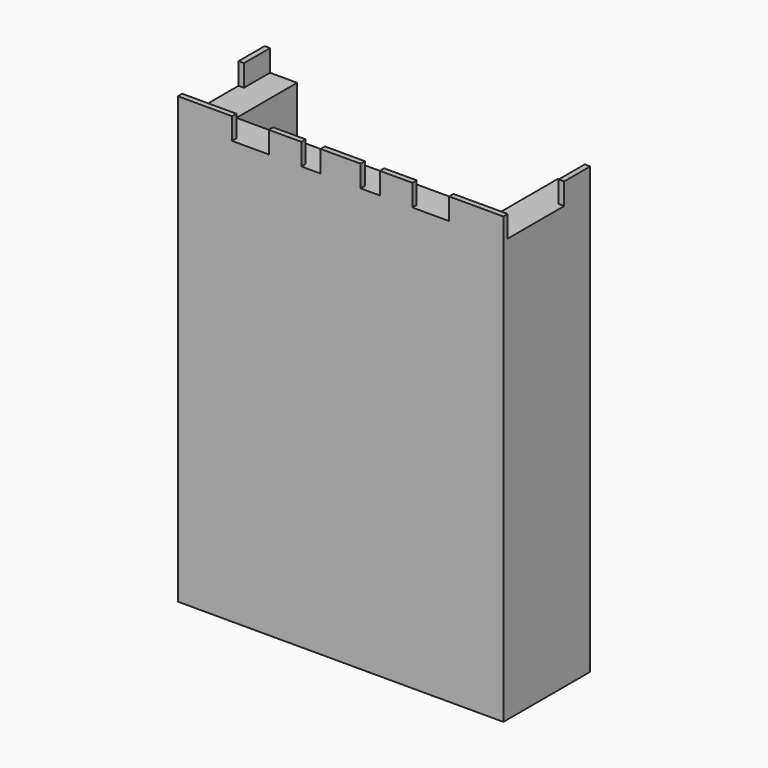
from build123d import *

# Parameters (mm, degrees)
F1_DEPTH = 39
F2_W     = 0.5
F2_H     = 3
F2_W_2   = 5
F2_H_2   = 0.5
F2_W_3   = 3
F3_DEPTH = 2


with BuildPart() as f1:
    # F0 (on Top) → F1 (new body)
    with BuildSketch(Plane.XY):
        Polygon((-15, 0), (0, 0), (15, 0), (15, 10), (12, 10), (12, 3), (-12, 3), (-12, 10), (-15, 10), align=None)
    extrude(amount=F1_DEPTH)

    # F2 (on face) → F3 (join)
    with BuildSketch(Plane.XY.offset(39)):
        with Locations((-14.75, 8.5)):
            Rectangle(F2_W, F2_H)
        with Locations((-12.5, 0.25)):
            Rectangle(F2_W_2, F2_H_2)
        with Locations((-5.117418, 0.25)):
            Rectangle(F2_W_3, F2_H_2)
        Polygon((-1.844762, 0.5), (-1.844762, 0), (0, 0), (1.844762, 0), (1.844762, 0.5), (0, 0.5), align=None)
        with Locations((5.117418, 0.25)):
            Rectangle(F2_W_3, F2_H_2)
        with Locations((12.5, 0.25)):
            Rectangle(F2_W_2, F2_H_2)
        with Locations((14.75, 8.5)):
            Rectangle(F2_W, F2_H)
    extrude(amount=F3_DEPTH)


solid = f1.part
